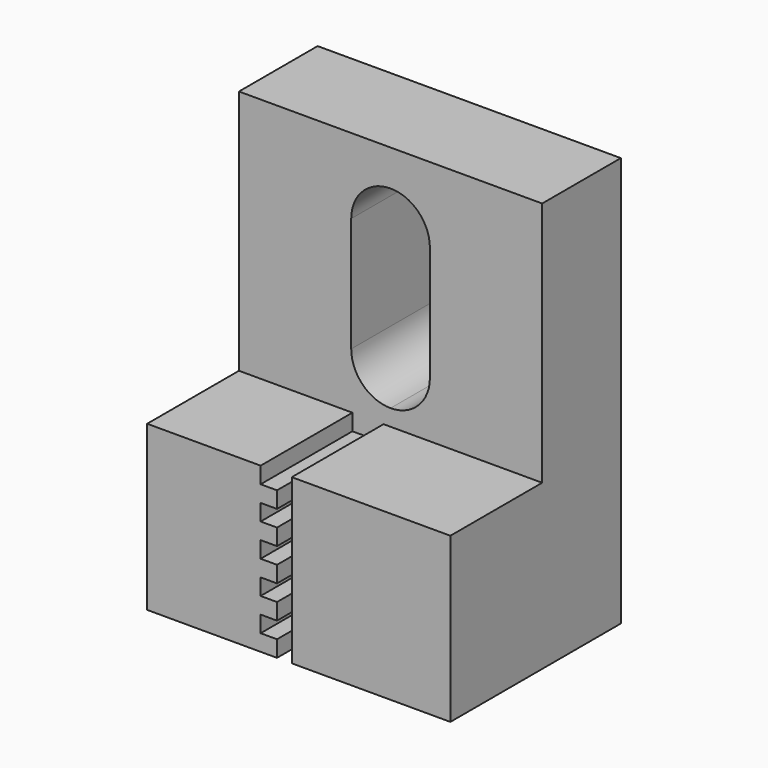
from build123d import *

# Parameters (mm, degrees)
F0_W     = 18.5
F0_H     = 5
F0_W_2   = 3
F0_H_2   = 0.95
F1_DEPTH = 10
F3_DEPTH = 7
F5_DEPTH = 15
F7_DEPTH = 25


with BuildPart() as f1:
    # F0 (on Top) → F1 (new body)
    with BuildSketch(Plane.XY):
        with Locations((4.286429, 2.5)):
            Rectangle(F0_W, F0_H)
        Polygon((-4.963571, 12.05), (-4.963571, 5), (13.536429, 5), (13.536429, 12.05), (10.536429, 12.05), (10.536429, 13), (-1.963571, 13), (-1.963571, 12.05), align=None)
        with Locations((-3.463571, 12.525)):
            Rectangle(F0_W_2, F0_H_2)
        with Locations((12.036429, 12.525)):
            Rectangle(F0_W_2, F0_H_2)
    extrude(amount=F1_DEPTH)

    # F2 (on face) → F3 (cut)
    with BuildSketch(Plane.XZ):
        Polygon((3.859359, 10), (1.959359, 10), (1.959359, 9), (2.959359, 9), (2.959359, 8), (1.959359, 8), (1.959359, 7), (2.959359, 7), (2.959359, 6), (1.959359, 6), (1.959359, 5), (2.959359, 5), (2.959359, 4), (1.959359, 4), (1.959359, 3), (2.959359, 3), (2.959359, 2), (1.959359, 2), (1.959359, 1), (2.959359, 1), (2.959359, 0), (3.859359, 0), align=None)
    extrude(amount=-F3_DEPTH, mode=Mode.SUBTRACT)

    # F4 (on face) → F5 (join)
    with BuildSketch(Plane.XY.offset(10)):
        Polygon((-4.963571, 13), (-4.963571, 7), (1.959359, 7), (3.859359, 7), (13.536429, 7), (13.536429, 13), align=None)
    extrude(amount=F5_DEPTH)

    # F6 (on face) → F7 (cut)
    with BuildSketch(Plane.XZ.offset(-7)):
        with BuildLine():
            Line((6.686429, 13.4), (6.686429, 20.4))
            ThreePointArc((6.686429, 20.4), (5.983486, 22.097056), (4.286429, 22.8))
            ThreePointArc((4.286429, 22.8), (2.589373, 22.097056), (1.886429, 20.4))
            Line((1.886429, 20.4), (1.886429, 13.4))
            ThreePointArc((1.886429, 13.4), (2.589373, 11.702944), (4.286429, 11))
            ThreePointArc((4.286429, 11), (5.983486, 11.702944), (6.686429, 13.4))
        make_face()
    extrude(amount=-F7_DEPTH, mode=Mode.SUBTRACT)


solid = f1.part
